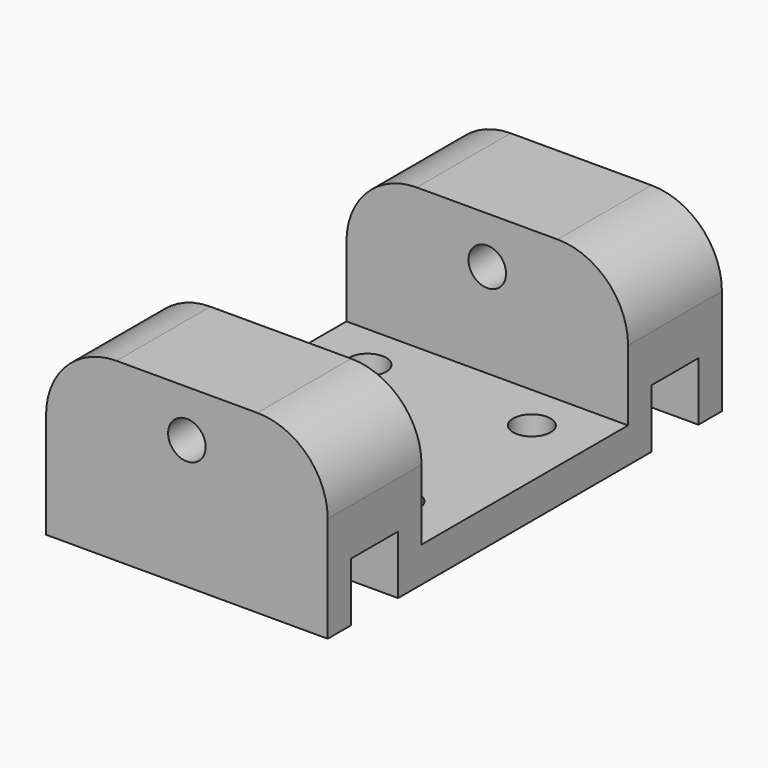
from build123d import *

# Parameters (mm, degrees)
CYLINDER171_R     = 1.6
CYLINDER171_DEPTH = 10
CYLINDER173_R     = 1.6
CYLINDER173_DEPTH = 10
CYLINDER172_R     = 1.6
CYLINDER172_DEPTH = 10
CYLINDER170_R     = 1.6
CYLINDER170_DEPTH = 10
CYLINDER169_R     = 1.6
CYLINDER169_DEPTH = 10
BOX090_W          = 19
BOX090_H          = 5
BOX090_DEPTH      = 5
BOX089_W          = 4
BOX089_H          = 5
BOX089_DEPTH      = 8
BOX088_W          = 1.8
BOX088_H          = 7
BOX088_DEPTH      = 11
BOX086_W          = 8
BOX086_H          = 5
BOX086_DEPTH      = 8
BOX087_W          = 24
BOX087_H          = 10
BOX087_DEPTH      = 15
FILLET048_R       = 6
BOX091_W          = 24
BOX091_H          = 22
BOX091_DEPTH      = 3
FILLET047_R       = 6


with BuildPart() as cylinder171:
    # Cylinder171 → Cylinder171 (new body)
    with BuildSketch(Plane(origin=(50, 24, 12), x_dir=(1, 0, 0), z_dir=(0, 0, 1))):
        Circle(CYLINDER171_R)
    extrude(amount=CYLINDER171_DEPTH)


with BuildPart() as cylinder173:
    # Cylinder173 → Cylinder173 (new body)
    with BuildSketch(Plane(origin=(64, 24, 12), x_dir=(1, 0, 0), z_dir=(0, 0, 1))):
        Circle(CYLINDER173_R)
    extrude(amount=CYLINDER173_DEPTH)


with BuildPart() as cylinder172:
    # Cylinder172 → Cylinder172 (new body)
    with BuildSketch(Plane(origin=(64, 38, 12), x_dir=(1, 0, 0), z_dir=(0, 0, 1))):
        Circle(CYLINDER172_R)
    extrude(amount=CYLINDER172_DEPTH)


with BuildPart() as fusion152:
    # Cylinder170 → Cylinder170 (new body)
    with BuildSketch(Plane(origin=(50, 38, 12), x_dir=(1, 0, 0), z_dir=(0, 0, 1))):
        Circle(CYLINDER170_R)
    extrude(amount=CYLINDER170_DEPTH)

    # Fusion152: union Cylinder171, Cylinder173, Cylinder172
    add(cylinder171.part)
    add(cylinder173.part)
    add(cylinder172.part)


with BuildPart() as cylinder169:
    # Cylinder169 → Cylinder169 (new body)
    with BuildSketch(Plane(origin=(57, 52, 30), x_dir=(1, 0, 0), z_dir=(0, -1, 0))):
        Circle(CYLINDER169_R)
    extrude(amount=CYLINDER169_DEPTH)


with BuildPart() as cube058:
    # Box090 → Box090 (new body)
    with BuildSketch(Plane(origin=(54, 44.5, 19), x_dir=(1, 0, 0), z_dir=(0, 0, 1))):
        with Locations((9.5, 2.5)):
            Rectangle(BOX090_W, BOX090_H)
    extrude(amount=BOX090_DEPTH)


with BuildPart() as cube057:
    # Box089 → Box089 (new body)
    with BuildSketch(Plane(origin=(54, 44.5, 19), x_dir=(1, 0, 0), z_dir=(0, 0, 1))):
        with Locations((2, 2.5)):
            Rectangle(BOX089_W, BOX089_H)
    extrude(amount=BOX089_DEPTH)


with BuildPart() as cube056:
    # Box088 → Box088 (new body)
    with BuildSketch(Plane(origin=(53, 43.5, 19), x_dir=(1, 0, 0), z_dir=(0, 0, 1))):
        with Locations((0.9, 3.5)):
            Rectangle(BOX088_W, BOX088_H)
    extrude(amount=BOX088_DEPTH)


with BuildPart() as cube054:
    # Box086 → Box086 (new body)
    with BuildSketch(Plane(origin=(45, 44.5, 19), x_dir=(1, 0, 0), z_dir=(0, 0, 1))):
        with Locations((4, 2.5)):
            Rectangle(BOX086_W, BOX086_H)
    extrude(amount=BOX086_DEPTH)


with BuildPart() as cut106:
    # Box087 → Box087 (new body)
    with BuildSketch(Plane(origin=(45, 42, 19), x_dir=(1, 0, 0), z_dir=(0, 0, 1))):
        with Locations((12, 5)):
            Rectangle(BOX087_W, BOX087_H)
    extrude(amount=BOX087_DEPTH)

    # Cut103: cut Cube054
    add(cube054.part, mode=Mode.SUBTRACT)

    # Cut104: cut Cube056
    add(cube056.part, mode=Mode.SUBTRACT)

    # Cut105: cut Cube057
    add(cube057.part, mode=Mode.SUBTRACT)

    # Cut106: cut Cube058
    add(cube058.part, mode=Mode.SUBTRACT)


with BuildPart() as fillet048:
    # Cut108 base: copy of Cut106
    add(cut106.part)

    # Cut108: cut Cylinder169
    add(cylinder169.part, mode=Mode.SUBTRACT)

    # Fillet048
    fillet048_edges = [fillet048.edges().sort_by_distance(p)[0] for p in [
        (45, 47, 34),
        (69, 47, 34),
    ]]
    fillet(fillet048_edges, radius=FILLET048_R)


with BuildPart() as cube059:
    # Box091 → Box091 (new body)
    with BuildSketch(Plane(origin=(45, 20, 19), x_dir=(1, 0, 0), z_dir=(0, 0, 1))):
        with Locations((12, 11)):
            Rectangle(BOX091_W, BOX091_H)
    extrude(amount=BOX091_DEPTH)


with BuildPart() as fake_cylinder_holder:
    # Cut107 base: copy of Cut106
    add(cut106.part)

    # Cut107: cut Cylinder169
    add(cylinder169.part, mode=Mode.SUBTRACT)

    # Fillet047
    fillet047_edges = [fake_cylinder_holder.edges().sort_by_distance(p)[0] for p in [
        (45, 47, 34),
        (69, 47, 34),
    ]]
    fillet(fillet047_edges, radius=FILLET047_R)


with BuildPart() as fake_cylinder_holder_1:
    # Fillet047 placement: moved
    add(fake_cylinder_holder.part.moved(Location((0, -32, 0))))

    # Fusion151: union Fillet048, Cube059
    add(fillet048.part)
    add(cube059.part)

    # Cut110: cut Fusion152
    add(fusion152.part, mode=Mode.SUBTRACT)


solid = fake_cylinder_holder_1.part
